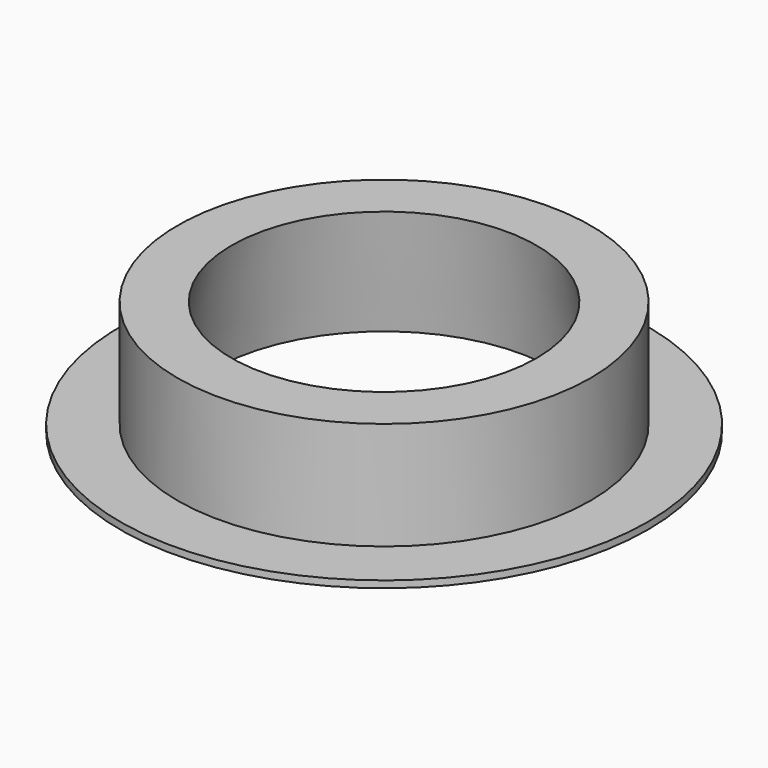
from build123d import *

# Parameters (mm, degrees)
F0_R     = 29.21
F1_DEPTH = 0.762
F2_R     = 22.86
F3_DEPTH = 11.938


with BuildPart() as f1:
    # F0 (on Top) → F1 (new body)
    with BuildSketch(Plane.XY):
        Circle(F0_R)
    extrude(amount=F1_DEPTH)

    # F2 (on face) → F3 (join)
    with BuildSketch(Plane.XY.offset(0.762)):
        Circle(F2_R)
    extrude(amount=F3_DEPTH)

    # F4 (on Front) → F5 (revolve, cut)
    with BuildSketch(Plane.XZ):
        Polygon((0, 39.243), (0, 0), (18.8595, 0), (12.7508, 39.243), align=None)
    revolve(axis=Axis((0, 0, 19.6215), (0, 0, 1)), mode=Mode.SUBTRACT)


solid = f1.part
